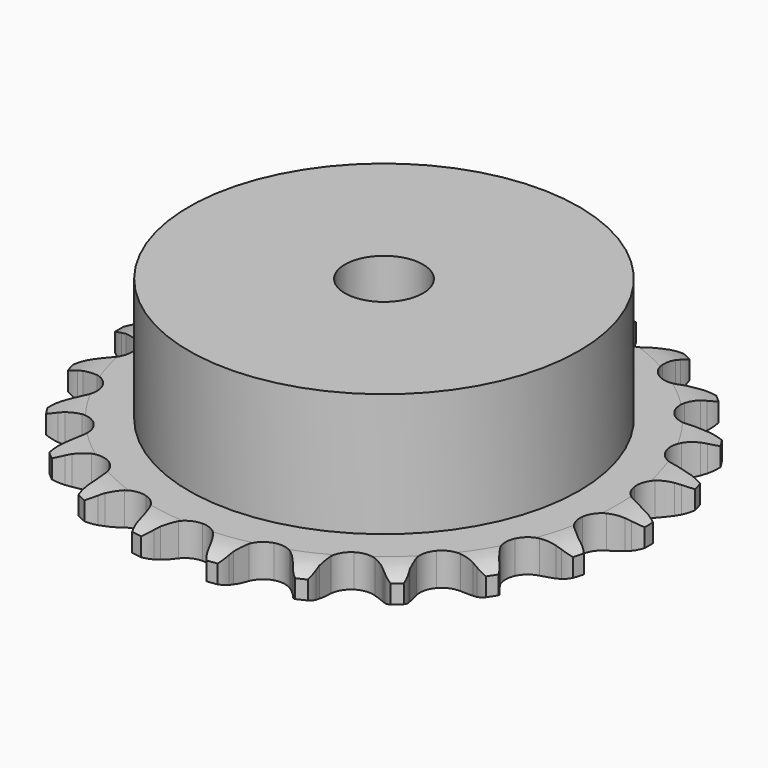
from build123d import *

# Parameters (mm, degrees)
PAD_DEPTH         = 5.9
SKETCH001_R       = 35
PAD001_DEPTH      = 28
SKETCH002_R       = 7
POCKET_DEPTH      = 0.001
POCKET_DEPTH_BACK = -28.001


with BuildPart() as part:
    # Sprocket → Pad (new body)
    with BuildSketch(Plane.XY):
        with BuildLine():
            ThreePointArc((-6.92637, 48.173959), (-5.704686, 46.972333), (-4.847717, 45.488412))
            Line((-4.847717, 45.488412), (-4.472713, 44.572816))
            ThreePointArc((-4.472713, 44.572816), (-3.8712, 43.346946), (-3.110322, 42.213085))
            ThreePointArc((-3.110322, 42.213085), (-1.732291, 41.089009), (0, 40.686906))
            ThreePointArc((0, 40.686906), (1.732291, 41.089009), (3.110322, 42.213085))
            ThreePointArc((3.110322, 42.213085), (3.8712, 43.346946), (4.472713, 44.572816))
            Line((4.472713, 44.572816), (4.847717, 45.488412))
            ThreePointArc((4.847717, 45.488412), (5.704686, 46.972333), (6.92637, 48.173959))
            ThreePointArc((6.92637, 48.173959), (7.76003, 46.676819), (8.164216, 45.011571))
            Line((8.164216, 45.011571), (8.266077, 44.027413))
            ThreePointArc((8.266077, 44.027413), (8.497857, 42.681733), (8.908469, 41.379438))
            ThreePointArc((8.908469, 41.379438), (9.913991, 39.912658), (11.462826, 39.0388))
            ThreePointArc((11.462826, 39.0388), (13.238232, 38.936573), (14.877132, 39.62688))
            Line((14.877132, 39.62688), (16.84915, 41.507195))
            ThreePointArc((16.84915, 41.507195), (17.148594, 41.901168), (17.466917, 42.280052))
            ThreePointArc((17.466917, 42.280052), (18.707241, 43.462428), (20.217976, 44.271192))
            ThreePointArc((20.217976, 44.271192), (20.596073, 42.599827), (20.514733, 40.88816))
            Line((20.514733, 40.88816), (20.335198, 39.91517))
            ThreePointArc((20.335198, 39.91517), (20.178467, 38.5587), (20.205548, 37.193474))
            ThreePointArc((20.205548, 37.193474), (20.7571, 35.502821), (21.997002, 34.228003))
            ThreePointArc((21.997002, 34.228003), (23.671691, 33.629727), (25.438686, 33.83034))
            Line((25.438686, 33.83034), (27.860569, 35.078908))
            ThreePointArc((27.860569, 35.078908), (28.258879, 35.372559), (28.671051, 35.646413))
            ThreePointArc((28.671051, 35.646413), (30.194247, 36.431455), (31.871642, 36.781835))
            ThreePointArc((31.871642, 36.781835), (31.763546, 35.07165), (31.203268, 33.452234))
            Line((31.203268, 33.452234), (30.756883, 32.569238))
            ThreePointArc((30.756883, 32.569238), (30.224339, 31.311871), (29.865694, 29.994316))
            ThreePointArc((29.865694, 29.994316), (29.918592, 28.216756), (30.749112, 26.644257))
            ThreePointArc((30.749112, 26.644257), (32.18741, 25.5984), (33.939349, 25.293068))
            Line((33.939349, 25.293068), (36.614891, 25.808736))
            ThreePointArc((36.614891, 25.808736), (37.079797, 25.978276), (37.552427, 26.124915))
            ThreePointArc((37.552427, 26.124915), (39.235095, 26.449023), (40.943257, 26.312633))
            ThreePointArc((40.943257, 26.312633), (40.357725, 24.702177), (39.3639, 23.306207))
            Line((39.3639, 23.306207), (38.686828, 22.58474))
            ThreePointArc((38.686828, 22.58474), (37.821614, 21.52834), (37.106299, 20.365198))
            ThreePointArc((37.106299, 20.365198), (36.656257, 18.644738), (37.010112, 16.901952))
            ThreePointArc((37.010112, 16.901952), (38.095497, 15.493244), (39.690448, 14.706701))
            Line((39.690448, 14.706701), (42.402892, 14.447694))
            ThreePointArc((42.402892, 14.447694), (42.896731, 14.479387), (43.391529, 14.486931))
            ThreePointArc((43.391529, 14.486931), (45.097349, 14.323848), (46.697893, 13.711738))
            ThreePointArc((46.697893, 13.711738), (45.682361, 12.33148), (44.335503, 11.27205))
            Line((44.335503, 11.27205), (43.482596, 10.77056))
            ThreePointArc((43.482596, 10.77056), (42.354807, 10.00071), (41.340772, 9.086212))
            ThreePointArc((41.340772, 9.086212), (40.424251, 7.562234), (40.272772, 5.79035))
            ThreePointArc((40.272772, 5.79035), (40.917313, 4.132917), (42.226062, 2.928885))
            Line((42.226062, 2.928885), (44.755662, 1.916186))
            ThreePointArc((44.755662, 1.916186), (45.238427, 1.807464), (45.715307, 1.675302))
            ThreePointArc((45.715307, 1.675302), (47.306084, 1.03824), (48.669343, 0))
            ThreePointArc((48.669343, 0), (47.306084, -1.03824), (45.715307, -1.675302))
            Line((45.715307, -1.675302), (44.755662, -1.916186))
            ThreePointArc((44.755662, -1.916186), (43.456666, -2.337117), (42.226062, -2.928885))
            ThreePointArc((42.226062, -2.928885), (40.917313, -4.132917), (40.272772, -5.79035))
            ThreePointArc((40.272772, -5.79035), (40.424251, -7.562234), (41.340772, -9.086212))
            Line((41.340772, -9.086212), (43.482596, -10.77056))
            ThreePointArc((43.482596, -10.77056), (43.915174, -11.010888), (44.335503, -11.27205))
            ThreePointArc((44.335503, -11.27205), (45.682361, -12.33148), (46.697893, -13.711738))
            ThreePointArc((46.697893, -13.711738), (45.097349, -14.323848), (43.391529, -14.486931))
            Line((43.391529, -14.486931), (42.402892, -14.447694))
            ThreePointArc((42.402892, -14.447694), (41.037923, -14.485605), (39.690448, -14.706701))
            ThreePointArc((39.690448, -14.706701), (38.095497, -15.493244), (37.010112, -16.901952))
            ThreePointArc((37.010112, -16.901952), (36.656257, -18.644738), (37.106299, -20.365198))
            Line((37.106299, -20.365198), (38.686828, -22.58474))
            ThreePointArc((38.686828, -22.58474), (39.034175, -22.937204), (39.3639, -23.306207))
            ThreePointArc((39.3639, -23.306207), (40.357725, -24.702177), (40.943257, -26.312633))
            ThreePointArc((40.943257, -26.312633), (39.235095, -26.449023), (37.552427, -26.124915))
            Line((37.552427, -26.124915), (36.614891, -25.808736))
            ThreePointArc((36.614891, -25.808736), (35.294533, -25.460555), (33.939349, -25.293068))
            ThreePointArc((33.939349, -25.293068), (32.18741, -25.5984), (30.749112, -26.644257))
            ThreePointArc((30.749112, -26.644257), (29.918592, -28.216756), (29.865694, -29.994316))
            Line((29.865694, -29.994316), (30.756883, -32.569238))
            ThreePointArc((30.756883, -32.569238), (30.99086, -33.005284), (31.203268, -33.452234))
            ThreePointArc((31.203268, -33.452234), (31.763546, -35.07165), (31.871642, -36.781835))
            ThreePointArc((31.871642, -36.781835), (30.194247, -36.431455), (28.671051, -35.646413))
            Line((28.671051, -35.646413), (27.860569, -35.078908))
            ThreePointArc((27.860569, -35.078908), (26.691789, -34.372843), (25.438686, -33.83034))
            ThreePointArc((25.438686, -33.83034), (23.671691, -33.629727), (21.997002, -34.228003))
            ThreePointArc((21.997002, -34.228003), (20.7571, -35.502821), (20.205548, -37.193474))
            Line((20.205548, -37.193474), (20.335198, -39.91517))
            ThreePointArc((20.335198, -39.91517), (20.436849, -40.399473), (20.514733, -40.88816))
            ThreePointArc((20.514733, -40.88816), (20.596073, -42.599827), (20.217976, -44.271192))
            ThreePointArc((20.217976, -44.271192), (18.707241, -43.462428), (17.466917, -42.280052))
            Line((17.466917, -42.280052), (16.84915, -41.507195))
            ThreePointArc((16.84915, -41.507195), (15.926635, -40.500447), (14.877132, -39.62688))
            ThreePointArc((14.877132, -39.62688), (13.238232, -38.936573), (11.462826, -39.0388))
            ThreePointArc((11.462826, -39.0388), (9.913991, -39.912658), (8.908469, -41.379438))
            Line((8.908469, -41.379438), (8.266077, -44.027413))
            ThreePointArc((8.266077, -44.027413), (8.227166, -44.520736), (8.164216, -45.011571))
            ThreePointArc((8.164216, -45.011571), (7.76003, -46.676819), (6.92637, -48.173959))
            ThreePointArc((6.92637, -48.173959), (5.704686, -46.972333), (4.847717, -45.488412))
            Line((4.847717, -45.488412), (4.472713, -44.572816))
            ThreePointArc((4.472713, -44.572816), (3.8712, -43.346946), (3.110322, -42.213085))
            ThreePointArc((3.110322, -42.213085), (1.732291, -41.089009), (0, -40.686906))
            ThreePointArc((0, -40.686906), (-1.732291, -41.089009), (-3.110322, -42.213085))
            Line((-3.110322, -42.213085), (-4.472713, -44.572816))
            ThreePointArc((-4.472713, -44.572816), (-4.649032, -45.035194), (-4.847717, -45.488412))
            ThreePointArc((-4.847717, -45.488412), (-5.704686, -46.972333), (-6.92637, -48.173959))
            ThreePointArc((-6.92637, -48.173959), (-7.76003, -46.676819), (-8.164216, -45.011571))
            Line((-8.164216, -45.011571), (-8.266077, -44.027413))
            ThreePointArc((-8.266077, -44.027413), (-8.497857, -42.681733), (-8.908469, -41.379438))
            ThreePointArc((-8.908469, -41.379438), (-9.913991, -39.912658), (-11.462826, -39.0388))
            ThreePointArc((-11.462826, -39.0388), (-13.238232, -38.936573), (-14.877132, -39.62688))
            Line((-14.877132, -39.62688), (-16.84915, -41.507195))
            ThreePointArc((-16.84915, -41.507195), (-17.148594, -41.901168), (-17.466917, -42.280052))
            ThreePointArc((-17.466917, -42.280052), (-18.707241, -43.462428), (-20.217976, -44.271192))
            ThreePointArc((-20.217976, -44.271192), (-20.596073, -42.599827), (-20.514733, -40.88816))
            Line((-20.514733, -40.88816), (-20.335198, -39.91517))
            ThreePointArc((-20.335198, -39.91517), (-20.178467, -38.5587), (-20.205548, -37.193474))
            ThreePointArc((-20.205548, -37.193474), (-20.7571, -35.502821), (-21.997002, -34.228003))
            ThreePointArc((-21.997002, -34.228003), (-23.671691, -33.629727), (-25.438686, -33.83034))
            Line((-25.438686, -33.83034), (-27.860569, -35.078908))
            ThreePointArc((-27.860569, -35.078908), (-28.258879, -35.372559), (-28.671051, -35.646413))
            ThreePointArc((-28.671051, -35.646413), (-30.194247, -36.431455), (-31.871642, -36.781835))
            ThreePointArc((-31.871642, -36.781835), (-31.763546, -35.07165), (-31.203268, -33.452234))
            Line((-31.203268, -33.452234), (-30.756883, -32.569238))
            ThreePointArc((-30.756883, -32.569238), (-30.224339, -31.311871), (-29.865694, -29.994316))
            ThreePointArc((-29.865694, -29.994316), (-29.918592, -28.216756), (-30.749112, -26.644257))
            ThreePointArc((-30.749112, -26.644257), (-32.18741, -25.5984), (-33.939349, -25.293068))
            Line((-33.939349, -25.293068), (-36.614891, -25.808736))
            ThreePointArc((-36.614891, -25.808736), (-37.079797, -25.978276), (-37.552427, -26.124915))
            ThreePointArc((-37.552427, -26.124915), (-39.235095, -26.449023), (-40.943257, -26.312633))
            ThreePointArc((-40.943257, -26.312633), (-40.357725, -24.702177), (-39.3639, -23.306207))
            Line((-39.3639, -23.306207), (-38.686828, -22.58474))
            ThreePointArc((-38.686828, -22.58474), (-37.821614, -21.52834), (-37.106299, -20.365198))
            ThreePointArc((-37.106299, -20.365198), (-36.656257, -18.644738), (-37.010112, -16.901952))
            ThreePointArc((-37.010112, -16.901952), (-38.095497, -15.493244), (-39.690448, -14.706701))
            Line((-39.690448, -14.706701), (-42.402892, -14.447694))
            ThreePointArc((-42.402892, -14.447694), (-42.896731, -14.479387), (-43.391529, -14.486931))
            ThreePointArc((-43.391529, -14.486931), (-45.097349, -14.323848), (-46.697893, -13.711738))
            ThreePointArc((-46.697893, -13.711738), (-45.682361, -12.33148), (-44.335503, -11.27205))
            Line((-44.335503, -11.27205), (-43.482596, -10.77056))
            ThreePointArc((-43.482596, -10.77056), (-42.354807, -10.00071), (-41.340772, -9.086212))
            ThreePointArc((-41.340772, -9.086212), (-40.424251, -7.562234), (-40.272772, -5.79035))
            ThreePointArc((-40.272772, -5.79035), (-40.917313, -4.132917), (-42.226062, -2.928885))
            Line((-42.226062, -2.928885), (-44.755662, -1.916186))
            ThreePointArc((-44.755662, -1.916186), (-45.238427, -1.807464), (-45.715307, -1.675302))
            ThreePointArc((-45.715307, -1.675302), (-47.306084, -1.03824), (-48.669343, 0))
            ThreePointArc((-48.669343, 0), (-47.306084, 1.03824), (-45.715307, 1.675302))
            Line((-45.715307, 1.675302), (-44.755662, 1.916186))
            ThreePointArc((-44.755662, 1.916186), (-43.456666, 2.337117), (-42.226062, 2.928885))
            ThreePointArc((-42.226062, 2.928885), (-40.917313, 4.132917), (-40.272772, 5.79035))
            ThreePointArc((-40.272772, 5.79035), (-40.424251, 7.562234), (-41.340772, 9.086212))
            Line((-41.340772, 9.086212), (-43.482596, 10.77056))
            ThreePointArc((-43.482596, 10.77056), (-43.915174, 11.010888), (-44.335503, 11.27205))
            ThreePointArc((-44.335503, 11.27205), (-45.682361, 12.33148), (-46.697893, 13.711738))
            ThreePointArc((-46.697893, 13.711738), (-45.097349, 14.323848), (-43.391529, 14.486931))
            Line((-43.391529, 14.486931), (-42.402892, 14.447694))
            ThreePointArc((-42.402892, 14.447694), (-41.037923, 14.485605), (-39.690448, 14.706701))
            ThreePointArc((-39.690448, 14.706701), (-38.095497, 15.493244), (-37.010112, 16.901952))
            ThreePointArc((-37.010112, 16.901952), (-36.656257, 18.644738), (-37.106299, 20.365198))
            Line((-37.106299, 20.365198), (-38.686828, 22.58474))
            ThreePointArc((-38.686828, 22.58474), (-39.034175, 22.937204), (-39.3639, 23.306207))
            ThreePointArc((-39.3639, 23.306207), (-40.357725, 24.702177), (-40.943257, 26.312633))
            ThreePointArc((-40.943257, 26.312633), (-39.235095, 26.449023), (-37.552427, 26.124915))
            Line((-37.552427, 26.124915), (-36.614891, 25.808736))
            ThreePointArc((-36.614891, 25.808736), (-35.294533, 25.460555), (-33.939349, 25.293068))
            ThreePointArc((-33.939349, 25.293068), (-32.18741, 25.5984), (-30.749112, 26.644257))
            ThreePointArc((-30.749112, 26.644257), (-29.918592, 28.216756), (-29.865694, 29.994316))
            Line((-29.865694, 29.994316), (-30.756883, 32.569238))
            ThreePointArc((-30.756883, 32.569238), (-30.99086, 33.005284), (-31.203268, 33.452234))
            ThreePointArc((-31.203268, 33.452234), (-31.763546, 35.07165), (-31.871642, 36.781835))
            ThreePointArc((-31.871642, 36.781835), (-30.194247, 36.431455), (-28.671051, 35.646413))
            Line((-28.671051, 35.646413), (-27.860569, 35.078908))
            ThreePointArc((-27.860569, 35.078908), (-26.691789, 34.372843), (-25.438686, 33.83034))
            ThreePointArc((-25.438686, 33.83034), (-23.671691, 33.629727), (-21.997002, 34.228003))
            ThreePointArc((-21.997002, 34.228003), (-20.7571, 35.502821), (-20.205548, 37.193474))
            Line((-20.205548, 37.193474), (-20.335198, 39.91517))
            ThreePointArc((-20.335198, 39.91517), (-20.436849, 40.399473), (-20.514733, 40.88816))
            ThreePointArc((-20.514733, 40.88816), (-20.596073, 42.599827), (-20.217976, 44.271192))
            ThreePointArc((-20.217976, 44.271192), (-18.707241, 43.462428), (-17.466917, 42.280052))
            Line((-17.466917, 42.280052), (-16.84915, 41.507195))
            ThreePointArc((-16.84915, 41.507195), (-15.926635, 40.500447), (-14.877132, 39.62688))
            ThreePointArc((-14.877132, 39.62688), (-13.238232, 38.936573), (-11.462826, 39.0388))
            ThreePointArc((-11.462826, 39.0388), (-9.913991, 39.912658), (-8.908469, 41.379438))
            Line((-8.908469, 41.379438), (-8.266077, 44.027413))
            ThreePointArc((-8.266077, 44.027413), (-8.227166, 44.520736), (-8.164216, 45.011571))
            ThreePointArc((-8.164216, 45.011571), (-7.76003, 46.676819), (-6.92637, 48.173959))
        make_face()
    extrude(amount=PAD_DEPTH)

    # Sketch → Groove (revolve, cut)
    with BuildSketch(Plane.XZ):
        with BuildLine():
            Line((41.833431, 0), (47.5, 0))
            Line((53.166569, 0), (47.5, 0))
            Line((53.166569, 5.9), (53.166569, 0))
            Line((47.5, 5.9), (53.166569, 5.9))
            Line((41.833431, 5.9), (47.5, 5.9))
            ThreePointArc((47.5, 4.6), (44.74032, 5.570833), (41.833431, 5.9))
            Line((47.5, 1.3), (47.5, 4.6))
            ThreePointArc((41.833431, 0), (44.74032, 0.329167), (47.5, 1.3))
        make_face()
    revolve(axis=Axis((0, 0, 0), (0, 0, 1)), mode=Mode.SUBTRACT)

    # Sketch001 → Pad001 (join)
    with BuildSketch(Plane.XY):
        Circle(SKETCH001_R)
    extrude(amount=PAD001_DEPTH)

    # Sketch002 → Pocket (cut, two sides)
    with BuildSketch(Plane.XY) as pocket_sk:
        Circle(SKETCH002_R)
    extrude(amount=-POCKET_DEPTH, mode=Mode.SUBTRACT)
    extrude(pocket_sk.sketch, amount=-POCKET_DEPTH_BACK, mode=Mode.SUBTRACT)


solid = part.part
